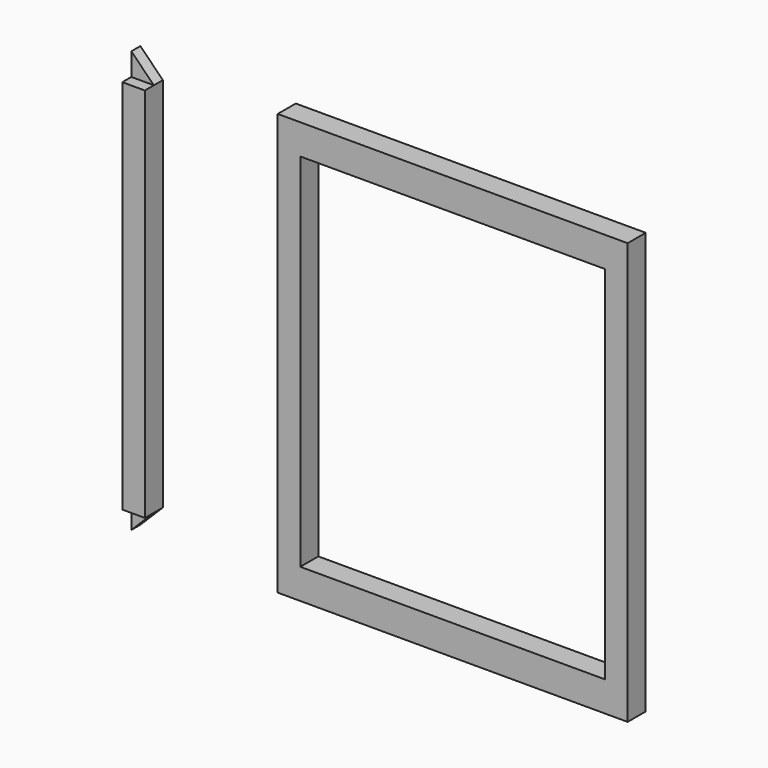
from build123d import *

# Parameters (mm, degrees)
F0_W     = 590.55
F0_H     = 711.2
F0_W_2   = 514.35
F0_H_2   = 609.6
F1_DEPTH = 38.1
F3_DEPTH = 38.1
F5_DEPTH = 19.05


with BuildPart() as f1:
    # F0 (on Front) → F1 (new body)
    with BuildSketch(Plane.XZ):
        with Locations((295.275, -355.6)):
            Rectangle(F0_W, F0_H)
        with Locations((295.275, -355.6)):
            Rectangle(F0_W_2, F0_H_2, mode=Mode.SUBTRACT)
    extrude(amount=F1_DEPTH)


with BuildPart() as f3:
    # F2 (on Front) → F3 (new body)
    with BuildSketch(Plane.XZ):
        Polygon((-224.182675, -38.1), (-262.282675, 0), (-262.282675, -711.2), (-224.182675, -673.1), align=None)
    extrude(amount=F3_DEPTH)

    # F4 (on face) → F5 (cut)
    with BuildSketch(Plane.XZ.offset(38.1)):
        Polygon((-262.282675, -711.2), (-224.182675, -673.1), (-262.282675, -673.1), align=None)
        Polygon((-224.182675, -38.1), (-262.282675, 0), (-262.282675, -38.1), align=None)
    extrude(amount=-F5_DEPTH, mode=Mode.SUBTRACT)


solid = Compound([f1.part, f3.part])
